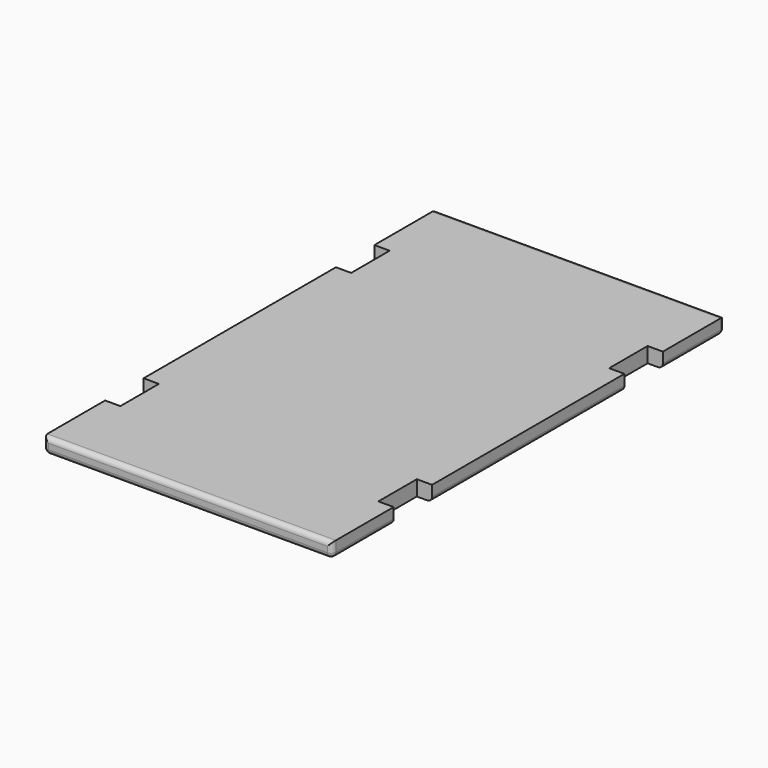
from build123d import *

# Parameters (mm, degrees)
F1_DEPTH = 6.35
F2_R     = 2


with BuildPart() as f1:
    # F0 (on Top) → F1 (new body)
    with BuildSketch(Plane.XY):
        Polygon((63.1890770793, 134.4424099624), (-56.8109229207, 134.4424099624), (-56.8109229207, 102.4424099624), (-50.4609229207, 102.4424099624), (-50.4609229207, 82.4424099624), (-56.8109229207, 82.4424099624), (-56.8109229207, -17.5575900376), (-50.4609229207, -17.5575900376), (-50.4609229207, -37.5575900376), (-56.8109229207, -37.5575900376), (-56.8109229207, -69.5575900376), (63.1890770793, -69.5575900376), (63.1890770793, -37.5575900376), (56.8390770793, -37.5575900376), (56.8390770793, -17.5575900376), (63.1890770793, -17.5575900376), (63.1890770793, 82.4424099624), (56.8390770793, 82.4424099624), (56.8390770793, 102.4424099624), (63.1890770793, 102.4424099624), align=None)
    extrude(amount=F1_DEPTH)

    # F2
    f2_edges = [f1.edges().sort_by_distance(p)[0] for p in [
        (3.189077, -69.55759, 6.35),
        (3.189077, -69.55759, 0),
        (3.189077, 134.44241, 6.35),
        (3.189077, 134.44241, 0),
        (63.189077, 134.44241, 3.175),
        (-56.810923, 134.44241, 3.175),
        (63.189077, -69.55759, 3.175),
        (-56.810923, -69.55759, 3.175),
        (63.189077, 32.44241, 0),
        (63.189077, 118.44241, 0),
        (63.189077, -53.55759, 0),
        (-56.810923, -53.55759, 0),
        (-56.810923, 32.44241, 0),
        (-56.810923, 118.44241, 0),
    ]]
    fillet(f2_edges, radius=F2_R)


solid = f1.part
